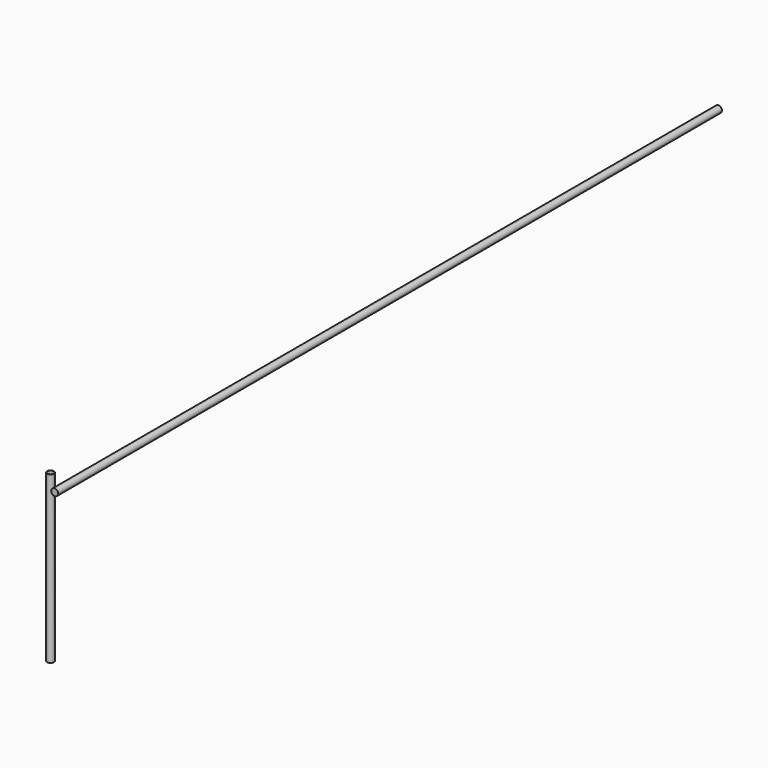
from build123d import *

# Parameters (mm, degrees)
F0_R     = 25
F1_DEPTH = 600
F2_T     = -2.5
F4_R     = 25
F5_DEPTH = 6000


with BuildPart() as f1:
    # F0 (on Top) → F1 (new body, symmetric)
    with BuildSketch(Plane.XY):
        Circle(F0_R)
    extrude(amount=F1_DEPTH, both=True)

    # F2
    f2_openings = [f1.faces().sort_by_distance(p)[0] for p in [
        (0, 0, 600),
    ]]
    offset(amount=F2_T, openings=f2_openings)


with BuildPart() as f5:
    # F4 (on offset) → F5 (new body)
    with BuildSketch(Plane.XZ.offset(25)):
        with Locations((50, 500)):
            Circle(F4_R)
    extrude(amount=-F5_DEPTH)


solid = Compound([f1.part, f5.part])
